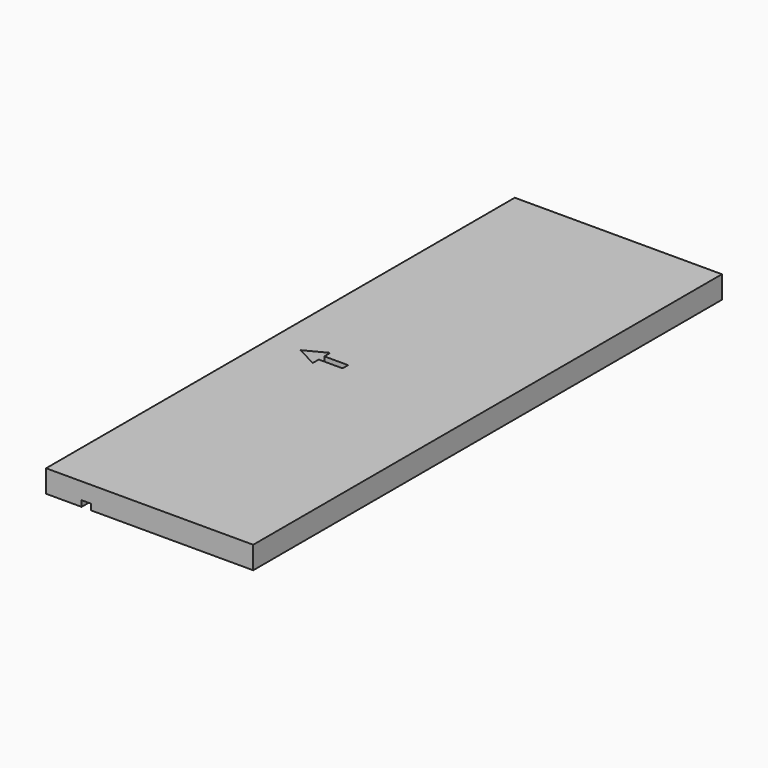
from build123d import *

# Parameters (mm, degrees)
PAD_DEPTH       = 19
POCKET_DEPTH    = 20
SKETCH002_W     = 8
SKETCH002_H     = 495
POCKET001_DEPTH = 5


with BuildPart() as part:
    # Sketch → Pad (new body)
    with BuildSketch(Plane.XY):
        Polygon((0, 495), (175, 495), (175, 0), (0, 0), (0, 247.5), align=None)
    extrude(amount=PAD_DEPTH)

    # Sketch001 (on Face6 of Pad) → Pocket (cut)
    with BuildSketch(Plane(origin=(0, 0, 0), x_dir=(1, 0, 0), z_dir=(0, 0, -1))):
        Polygon((43.478867, -245.853387), (25.68141, -236.579168), (43.478867, -227.30495), (43.478867, -233.655788), (63.547763, -233.655788), (63.547763, -239.502548), (43.478867, -239.502548), align=None)
    extrude(amount=-POCKET_DEPTH, mode=Mode.SUBTRACT)

    # Sketch002 (on Face4 of Pocket) → Pocket001 (cut)
    with BuildSketch(Plane(origin=(0, 0, 0), x_dir=(1, 0, 0), z_dir=(0, 0, -1))):
        with Locations((34, -247.5)):
            Rectangle(SKETCH002_W, SKETCH002_H)
    extrude(amount=-POCKET001_DEPTH, mode=Mode.SUBTRACT)


solid = part.part
